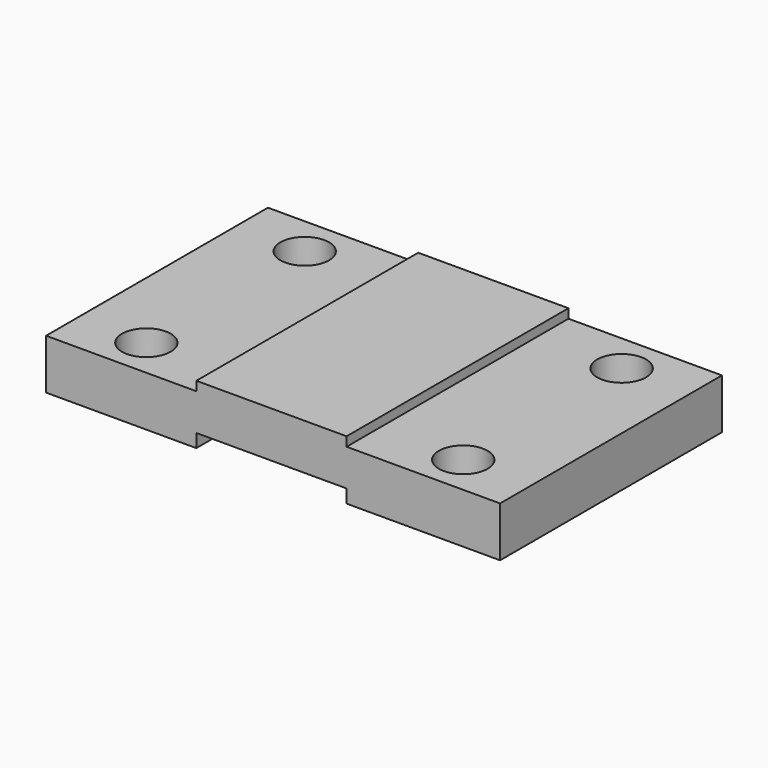
from build123d import *

# Parameters (mm, degrees)
F0_W     = 45
F0_H     = 83.05
F0_W_2   = 45.96
F1_DEPTH = 15
F2_DEPTH = 2.76
F3_W     = 45
F3_H     = 83.05
F4_DEPTH = 4
F5_R     = 7.300499
F6_DEPTH = 15.001


with BuildPart() as f1:
    # F0 (on Top) → F1 (new body)
    with BuildSketch(Plane.XY):
        with Locations((-45.48, 0)):
            Rectangle(F0_W, F0_H)
        with Locations((-0.48, 0)):
            Rectangle(F0_W, F0_H)
        with Locations((45, 0)):
            Rectangle(F0_W_2, F0_H)
    extrude(amount=-F1_DEPTH)

    # F0 (on Top) → F2 (join)
    with BuildSketch(Plane.XY):
        with Locations((-0.48, 0)):
            Rectangle(F0_W, F0_H)
    extrude(amount=F2_DEPTH)

    # F3 (on face) → F4 (cut)
    with BuildSketch(Plane(origin=(0, 0, -15), x_dir=(1, 0, 0), z_dir=(0, 0, -1))):
        with Locations((-0.48, 0)):
            Rectangle(F3_W, F3_H)
    extrude(amount=-F4_DEPTH, mode=Mode.SUBTRACT)

    # F5 (on face) → F6 (cut, through all)
    with BuildSketch(Plane.XY):
        with Locations((-47.45315, 29.645713)):
            Circle(F5_R)
        with Locations((-47.45315, -29.645713)):
            Circle(F5_R)
        with Locations((47.45315, 29.645713)):
            Circle(F5_R)
        with Locations((47.45315, -29.645713)):
            Circle(F5_R)
    extrude(amount=-F6_DEPTH, mode=Mode.SUBTRACT)


solid = f1.part
